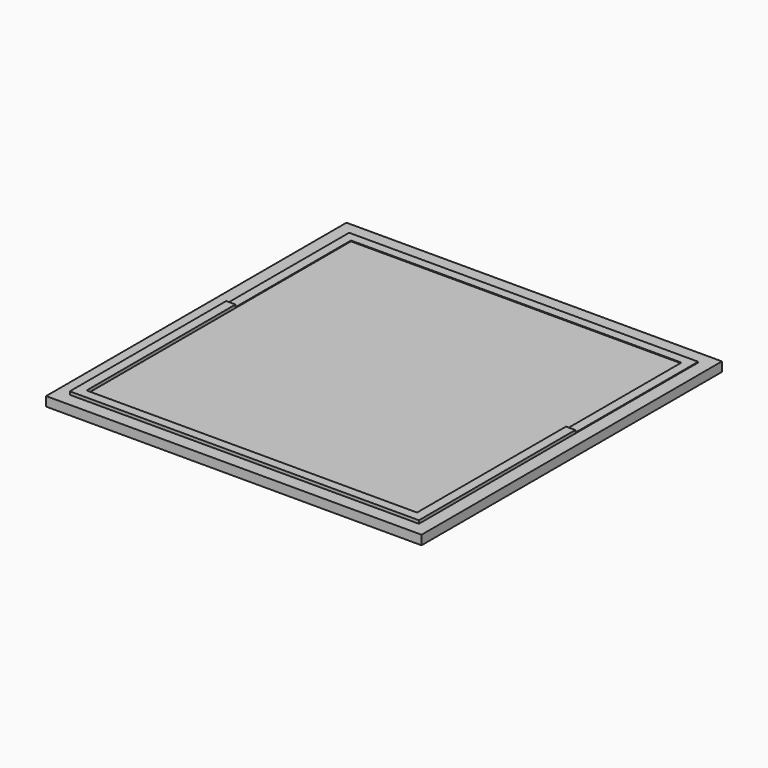
from build123d import *

# Parameters (mm, degrees)
F3_DEPTH = 1.6
F4_DEPTH = 1.3
F2_W     = 48.4
F2_H     = 48.4
F5_DEPTH = 1.2


with BuildPart() as f3:
    # F0 (on Top) → F3 (new body)
    with BuildSketch(Plane.XY):
        Polygon((-21.3, 2.314286), (-22.5, 2.314286), (-22.5, -22.885714), (22.5, -22.885714), (22.5, 2.314286), (21.3, 2.314286), (21.3, -21.685714), (-21.3, -21.685714), align=None)
    extrude(amount=F3_DEPTH)

    # F1 (on Top) → F4 (join)
    with BuildSketch(Plane.XY):
        Polygon((22.5, 22.114286), (-22.5, 22.114286), (-22.5, 2.314286), (-21.3, 2.314286), (-21.3, 20.914286), (21.3, 20.914286), (21.3, 2.314286), (22.5, 2.314286), align=None)
    extrude(amount=F4_DEPTH)

    # F2 (on Top) → F5 (join)
    with BuildSketch(Plane.XY):
        with Locations((0, -0.385714)):
            Rectangle(F2_W, F2_H)
        Polygon((-22.5, 2.314286), (-22.5, 22.114286), (22.5, 22.114286), (22.5, 2.314286), (22.5, -22.885714), (-22.5, -22.885714), align=None, mode=Mode.SUBTRACT)
        Polygon((-21.3, 20.914286), (-21.3, 2.314286), (-21.3, -21.685714), (21.3, -21.685714), (21.3, 2.314286), (21.3, 20.914286), align=None)
    extrude(amount=F5_DEPTH)


solid = f3.part
